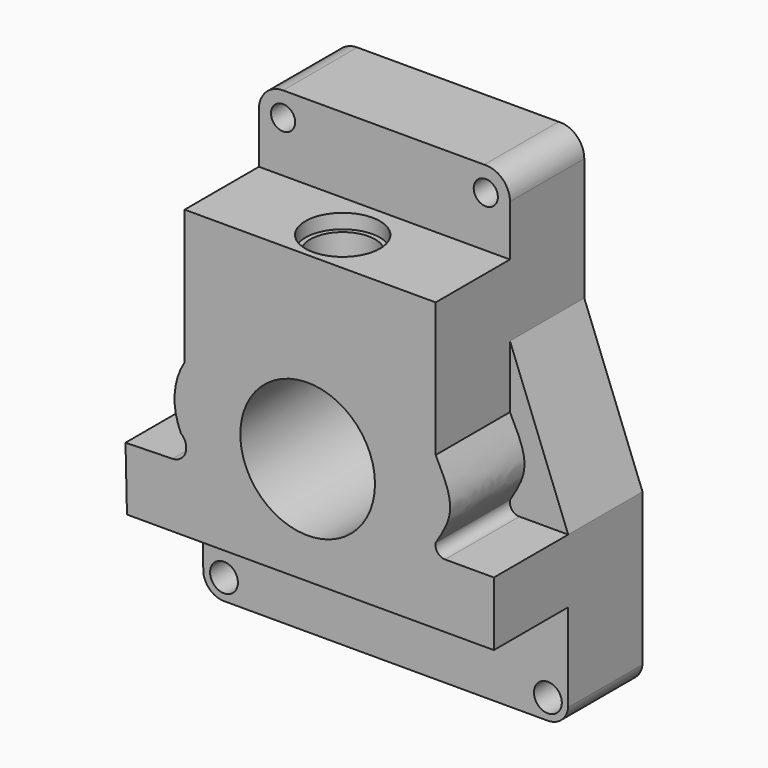
from build123d import *

# Parameters (mm, degrees)
F0_R      = 17.0227145172
F0_R_2    = 3.25
F1_DEPTH  = 25
F2_R      = 3.25
F3_DEPTH  = 70
F4_DEPTH  = 70
F5_R      = 18.1266213474
F6_DEPTH  = 25
F7_DEPTH  = 70
F9_DEPTH  = 25
F5_W      = 67.5716735423
F5_H      = 19.3005736992
F10_DEPTH = 25
F11_R     = 10.0310705793
F12_DEPTH = 3.9
F13_R     = 8.7509220972
F14_DEPTH = 45.3
F15_R     = 3.75
F16_DEPTH = 70
F17_DEPTH = 70


with BuildPart() as f1:
    # F0 (on Front) → F1 (new body)
    with BuildSketch(Plane.XZ):
        with BuildLine():
            Line((34.4588756561, 55.8330058903), (-33.1127978861, 55.8330058903))
            Line((-33.1127978861, 55.8330058903), (-33.1127978861, 40.7908696607))
            Line((-33.1127978861, 40.7908696607), (-33.1127978861, 25.7487334311))
            add(Edge.make_bspline(
                [(-33.1127978861, 25.7487334311), (-34.6033996611, 22.4340609922), (-37.650110278, 15.6590471152), (-34.6467602747, 8.3554726364), (-33.1127978861, 4.625168629)],
                knots=[0, 0, 0, 0, 0.4892495424, 1, 1, 1, 1], degree=3))
            add(Edge.make_bspline(
                [(-33.1127978861, 4.625168629), (-32.7607149389, 2.6646672617), (-32.1126225155, -0.9441018995), (-35.0434349429, -0.2960094761), (-36.3820530474, 0)],
                knots=[0, 0, 0, 0, 0.543260397, 1, 1, 1, 1], degree=3))
            Line((-36.3820530474, 0), (-49.0224920213, -0.2960094761))
            Line((-49.0224920213, -0.2960094761), (-48.661808527, -15.6982113192))
            Line((-48.661808527, -15.6982113192), (50.1245036721, -15.6982113192))
            Line((50.1245036721, -15.6982113192), (50.1245036721, 0))
            Line((50.1245036721, 0), (37.6335456967, 0))
            add(Edge.make_bspline(
                [(34.4588756561, 4.625168629), (34.1095986146, 2.6618613561), (33.4709502093, -0.928019769), (36.3355820401, -0.2893713637), (37.6335456967, 0)],
                knots=[0, 0, 0, 0, 0.5469003581, 1, 1, 1, 1], degree=3))
            add(Edge.make_bspline(
                [(34.4588756561, 25.7487334311), (36.1774809535, 21.1049777281), (39.2730683507, 12.7405489371), (35.9410342162, 7.1236727718), (34.4588756561, 4.625168629)],
                knots=[0, 0, 0, 0, 0.5551790587, 1, 1, 1, 1], degree=3))
            Line((34.4588756561, 25.7487334311), (34.4588756561, 40.7908696607))
            Line((34.4588756561, 40.7908696607), (34.4588756561, 55.8330058903))
        make_face()
        with Locations((0, 12.6643273979)):
            Circle(F0_R, mode=Mode.SUBTRACT)
        with BuildLine():
            Line((50.1245036721, -15.6982113192), (-48.661808527, -15.6982113192))
            Line((-48.661808527, -15.6982113192), (-48.0705925932, -40.9447981115))
            ThreePointArc((-48.0705925932, -40.9447981115), (-46.2339945035, -44.4725848586), (-42.5167828798, -45.8870492876))
            Line((-42.5167828798, -45.8870492876), (44.6597114205, -45.8870492876))
            ThreePointArc((44.6597114205, -45.8870492876), (48.3437920738, -44.4682292272), (50.1245036721, -40.9447981115))
            Line((50.1245036721, -40.9447981115), (50.1245036721, -15.6982113192))
        make_face()
        with Locations((-42.5167828798, -40.2954021766)):
            Circle(F0_R_2, mode=Mode.SUBTRACT)
        with Locations((44.6597114205, -40.3946330681)):
            Circle(F0_R_2, mode=Mode.SUBTRACT)
        with BuildLine():
            ThreePointArc((-26.6140252352, 80.306276679), (-31.2003440388, 78.4118406934), (-33.1127978861, 73.8330058903))
            Line((-33.1127978861, 73.8330058903), (-33.1127978861, 55.8330058903))
            Line((-33.1127978861, 55.8330058903), (34.4588756561, 55.8330058903))
            Line((34.4588756561, 55.8330058903), (34.4588756561, 73.807453795))
            ThreePointArc((34.4588756561, 73.807453795), (32.4062242428, 78.5527695695), (27.542417869, 80.306276679))
            Line((27.542417869, 80.306276679), (-26.6140252352, 80.306276679))
        make_face()
        with Locations((-26.6140252352, 73.807453795)):
            Circle(F0_R_2, mode=Mode.SUBTRACT)
        with Locations((27.9474437952, 73.807453795)):
            Circle(F0_R_2, mode=Mode.SUBTRACT)
        with Locations((0, 12.6643273979)):
            Circle(F0_R)
        with BuildLine():
            Line((-33.1127978861, 25.7487334311), (-33.1127978861, 40.7908696607))
            Line((-33.1127978861, 40.7908696607), (-49.0224920213, -0.2960094761))
            Line((-49.0224920213, -0.2960094761), (-36.3820530474, 0))
            add(Edge.make_bspline(
                [(-33.1127978861, 4.625168629), (-32.7607149389, 2.6646672617), (-32.1126225155, -0.9441018995), (-35.0434349429, -0.2960094761), (-36.3820530474, 0)],
                knots=[0, 0, 0, 0, 0.543260397, 1, 1, 1, 1], degree=3))
            add(Edge.make_bspline(
                [(-33.1127978861, 25.7487334311), (-34.6033996611, 22.4340609922), (-37.650110278, 15.6590471152), (-34.6467602747, 8.3554726364), (-33.1127978861, 4.625168629)],
                knots=[0, 0, 0, 0, 0.4892495424, 1, 1, 1, 1], degree=3))
        make_face()
        with BuildLine():
            Line((50.1245036721, 0), (34.4588756561, 40.7908696607))
            Line((34.4588756561, 40.7908696607), (34.4588756561, 25.7487334311))
            add(Edge.make_bspline(
                [(34.4588756561, 25.7487334311), (36.1774809535, 21.1049777281), (39.2730683507, 12.7405489371), (35.9410342162, 7.1236727718), (34.4588756561, 4.625168629)],
                knots=[0, 0, 0, 0, 0.5551790587, 1, 1, 1, 1], degree=3))
            add(Edge.make_bspline(
                [(34.4588756561, 4.625168629), (34.1095986146, 2.6618613561), (33.4709502093, -0.928019769), (36.3355820401, -0.2893713637), (37.6335456967, 0)],
                knots=[0, 0, 0, 0, 0.5469003581, 1, 1, 1, 1], degree=3))
            Line((37.6335456967, 0), (50.1245036721, 0))
        make_face()
        with Locations((-26.6140252352, 73.807453795)):
            Circle(F0_R_2)
        with Locations((27.9474437952, 73.807453795)):
            Circle(F0_R_2)
        with Locations((-42.5167828798, -40.2954021766)):
            Circle(F0_R_2)
        with Locations((44.6597114205, -40.3946330681)):
            Circle(F0_R_2)
    extrude(amount=F1_DEPTH)

    # F2 (on face) → F3 (cut)
    with BuildSketch(Plane(origin=(0, 0, 0), x_dir=(-1, 0, 0), z_dir=(0, 1, 0))):
        with Locations((-27.9474437952, 73.807453795)):
            Circle(F2_R)
    extrude(amount=-F3_DEPTH, mode=Mode.SUBTRACT)

    # F2 (on face) → F4 (cut)
    with BuildSketch(Plane(origin=(0, 0, 0), x_dir=(-1, 0, 0), z_dir=(0, 1, 0))):
        with Locations((26.6140252352, 73.807453795)):
            Circle(F2_R)
    extrude(amount=-F4_DEPTH, mode=Mode.SUBTRACT)

    # F5 (on face) → F6 (join)
    with BuildSketch(Plane.XZ.offset(25)):
        with BuildLine():
            Line((34.4588756561, 20.5979254097), (34.4588756561, 40.7908696607))
            Line((34.4588756561, 40.7908696607), (-33.1127978861, 40.7908696607))
            Line((-33.1127978861, 40.7908696607), (-33.1127978861, 20.5979254097))
            ThreePointArc((-33.1127978861, 20.5979254097), (-37.1626297585, 12.9749266175), (-34.7937931273, 4.6743325547))
            ThreePointArc((-34.7937931273, 4.6743325547), (-33.9547139722, 1.7822291717), (-36.3820530474, 0))
            Line((-36.3820530474, 0), (-49.0224920213, -0.2960094761))
            Line((-49.0224920213, -0.2960094761), (-48.626471606, -17.2071974467))
            Line((-48.626471606, -17.2071974467), (50.1245036721, -17.2071974467))
            Line((50.1245036721, -17.2071974467), (50.1245036721, 0))
            Line((50.1245036721, 0), (37.3762585223, 0))
            ThreePointArc((37.3762585223, 0), (34.6582437375, 2.1242313939), (36.0628159286, 5.2749678705))
            ThreePointArc((36.0628159286, 5.2749678705), (37.5665970474, 13.1778026111), (34.4588756561, 20.5979254097))
        make_face()
        with Locations((0, 11.75764855)):
            Circle(F5_R, mode=Mode.SUBTRACT)
        with BuildLine():
            Line((-33.1127978861, 20.5979254097), (-33.1127978861, 40.7908696607))
            Line((-33.1127978861, 40.7908696607), (-49.0224920213, -0.2960094761))
            Line((-49.0224920213, -0.2960094761), (-36.3820530474, 0))
            ThreePointArc((-36.3820530474, 0), (-33.9547139722, 1.7822291717), (-34.7937931273, 4.6743325547))
            ThreePointArc((-34.7937931273, 4.6743325547), (-37.1626297585, 12.9749266175), (-33.1127978861, 20.5979254097))
        make_face()
        with BuildLine():
            Line((50.1245036721, 0), (34.4588756561, 40.7908696607))
            Line((34.4588756561, 40.7908696607), (34.4588756561, 20.5979254097))
            ThreePointArc((34.4588756561, 20.5979254097), (37.5665970474, 13.1778026111), (36.0628159286, 5.2749678705))
            ThreePointArc((36.0628159286, 5.2749678705), (34.6582437375, 2.1242313939), (37.3762585223, 0))
            Line((37.3762585223, 0), (50.1245036721, 0))
        make_face()
    extrude(amount=F6_DEPTH)

    # F7 (cut): a face of the model
    f7_faces = [f1.faces().sort_by_distance(p)[0] for p in [
        (0, -25, 11.75764855),
    ]]
    extrude(f7_faces, amount=-F7_DEPTH, mode=Mode.SUBTRACT)

    # F8 (on face) → F9 (cut)
    with BuildSketch(Plane.XZ.offset(50)):
        with BuildLine():
            Line((-33.1127978861, 23.9283517003), (-33.1127978861, 40.7908696607))
            Line((-33.1127978861, 40.7908696607), (-49.0224920213, -0.2960094761))
            Line((-49.0224920213, -0.2960094761), (-36.3820530474, 0))
            ThreePointArc((-36.3820530474, 0), (-32.8674732325, 2.5960168229), (-34.120904149, 6.7817647319))
            ThreePointArc((-34.120904149, 6.7817647319), (-35.7939711067, 15.4830585232), (-33.1127978861, 23.9283517003))
        make_face()
        with BuildLine():
            Line((50.1245036721, 0), (34.4588756561, 40.7908696607))
            Line((34.4588756561, 40.7908696607), (34.4588756561, 23.9283517003))
            add(Edge.make_bspline(
                [(34.4588756561, 23.9283517003), (36.4646656644, 20.023537046), (40.3133082853, 12.5311096019), (36.3544858645, 6.1672411956), (34.4588756561, 3.1200184021)],
                knots=[0, 0, 0, 0, 0.5211681639, 1, 1, 1, 1], degree=3))
            ThreePointArc((34.4588756561, 3.1200184021), (34.9800199126, 0.9572074446), (36.9882769883, 0))
            Line((36.9882769883, 0), (50.1245036721, 0))
        make_face()
    extrude(amount=-F9_DEPTH, mode=Mode.SUBTRACT)

    # F5 (on face) → F10 (join)
    with BuildSketch(Plane.XZ.offset(25)):
        with Locations((0.673038885, 50.4411565103)):
            Rectangle(F5_W, F5_H)
    extrude(amount=F10_DEPTH)

    # F11 (on face) → F12 (cut)
    with BuildSketch(Plane.XY.offset(60.0914433599)):
        with Locations((0, -38.2113941014)):
            Circle(F11_R)
    extrude(amount=-F12_DEPTH, mode=Mode.SUBTRACT)

    # F13 (on face) → F14 (cut)
    with BuildSketch(Plane.XY.offset(56.1914433599)):
        with Locations((0, -38.2113941014)):
            Circle(F13_R)
    extrude(amount=-F14_DEPTH, mode=Mode.SUBTRACT)

    # F15 (on face) → F16 (cut)
    with BuildSketch(Plane.XZ.offset(25)):
        with Locations((-42.5167828798, -40.2954021766)):
            Circle(F15_R)
    extrude(amount=-F16_DEPTH, mode=Mode.SUBTRACT)

    # F15 (on face) → F17 (cut)
    with BuildSketch(Plane.XZ.offset(25)):
        with Locations((44.6597114205, -40.3946330681)):
            Circle(F15_R)
    extrude(amount=-F17_DEPTH, mode=Mode.SUBTRACT)


solid = f1.part
